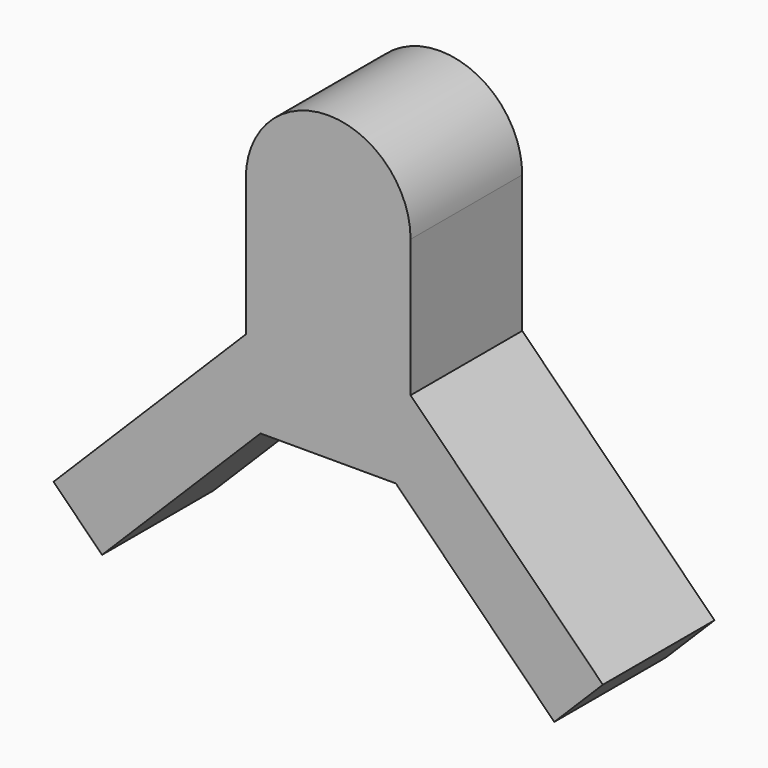
from build123d import *

# Parameters (mm, degrees)
F0_R     = 12.5
F1_DEPTH = 25.4


with BuildPart() as f1:
    # F0 (on Front) → F1 (new body)
    with BuildSketch(Plane.XZ):
        with BuildLine():
            Line((15, 10), (15, 35))
            ThreePointArc((15, 35), (0, 50), (-15, 35))
            Line((-15, 35), (-15, 10))
            Line((-15, 10), (-50, -25))
            Line((-50, -25), (-41.1611652352, -33.8388347648))
            Line((-41.1611652352, -33.8388347648), (-12.3223304703, -5))
            Line((-12.3223304703, -5), (0, -5))
            Line((0, -5), (12.3223304703, -5))
            Line((12.3223304703, -5), (41.1611652352, -33.8388347648))
            Line((41.1611652352, -33.8388347648), (50, -25))
            Line((50, -25), (15, 10))
        make_face()
        with Locations((0, 35)):
            Circle(F0_R, mode=Mode.SUBTRACT)
        with Locations((0, 35)):
            Circle(F0_R)
    extrude(amount=-F1_DEPTH)


solid = f1.part
